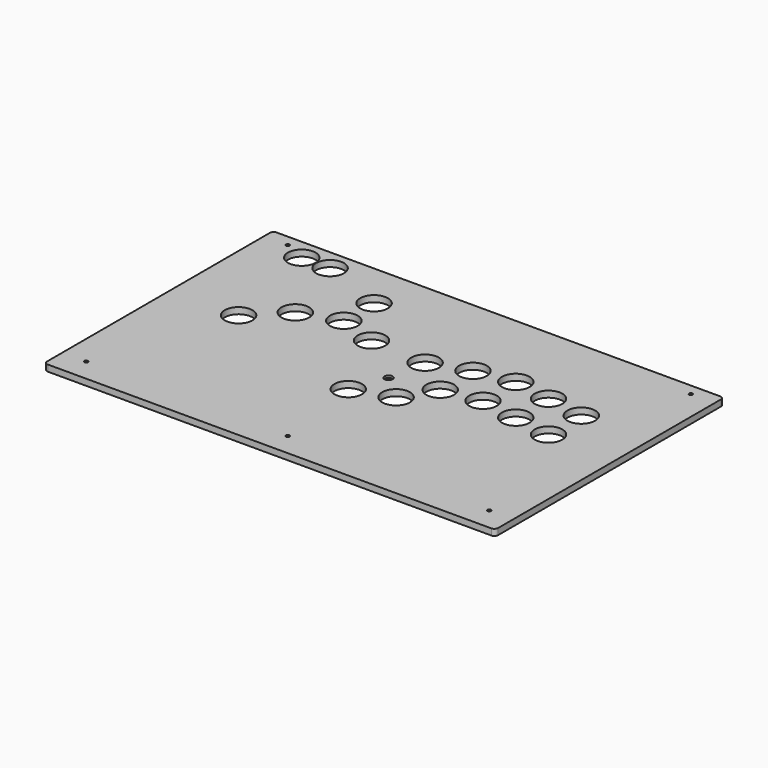
from build123d import *

# Parameters (mm, degrees)
PAD002_DEPTH  = 5
SKETCH008_R   = 11
HOLE001_DEPTH = 5
SKETCH009_R   = 1.4
HOLE002_DEPTH = 5
SKETCH010_R   = 3.25
HOLE003_DEPTH = 1.7


with BuildPart() as part:
    # Sketch007 → Pad002 (new body)
    with BuildSketch(Plane.XY):
        with BuildLine():
            Line((-176, -1), (176, -1))
            ThreePointArc((179, -4), (178.12132, -1.87868), (176, -1))
            Line((179, -4), (179, -225))
            ThreePointArc((176, -228), (178.12132, -227.12132), (179, -225))
            Line((176, -228), (-176, -228))
            ThreePointArc((-179, -225), (-178.12132, -227.12132), (-176, -228))
            Line((-179, -225), (-179, -4))
            ThreePointArc((-176, -1), (-178.12132, -1.87868), (-179, -4))
        make_face()
    extrude(amount=PAD002_DEPTH)

    # Sketch008 → Hole001 (cut)
    with BuildSketch(Plane.XY):
        with Locations((-142.75, -17.7)):
            Circle(SKETCH008_R)
        with Locations((-120.25, -17.7)):
            Circle(SKETCH008_R)
        with Locations((-69.5, -37.5)):
            Circle(SKETCH008_R)
        with Locations((-69.5, -67.5)):
            Circle(SKETCH008_R)
        with Locations((-100, -77.5)):
            Circle(SKETCH008_R)
        with Locations((-125, -102.5)):
            Circle(SKETCH008_R)
        with Locations((-39.5, -77.5)):
            Circle(SKETCH008_R)
        with Locations((5, -80)):
            Circle(SKETCH008_R)
        with Locations((35, -70)):
            Circle(SKETCH008_R)
        with Locations((65, -65)):
            Circle(SKETCH008_R)
        with Locations((95, -70)):
            Circle(SKETCH008_R)
        with Locations((125, -75)):
            Circle(SKETCH008_R)
        with Locations((-10, -137.5)):
            Circle(SKETCH008_R)
        with Locations((20, -127.5)):
            Circle(SKETCH008_R)
        with Locations((35, -102.5)):
            Circle(SKETCH008_R)
        with Locations((65, -97.5)):
            Circle(SKETCH008_R)
        with Locations((95, -102.5)):
            Circle(SKETCH008_R)
        with Locations((125, -107.5)):
            Circle(SKETCH008_R)
    extrude(amount=HOLE001_DEPTH, mode=Mode.SUBTRACT)

    # Sketch009 → Hole002 (cut)
    with BuildSketch(Plane.XY):
        with Locations((0, -210)):
            Circle(SKETCH009_R)
        with Locations((160, -210)):
            Circle(SKETCH009_R)
        with Locations((160, -10)):
            Circle(SKETCH009_R)
        with Locations((-160, -210)):
            Circle(SKETCH009_R)
        with Locations((-160, -10)):
            Circle(SKETCH009_R)
        with Locations((0, -110)):
            Circle(SKETCH009_R)
    extrude(amount=HOLE002_DEPTH, mode=Mode.SUBTRACT)

    # Sketch010 → Hole003 (cut)
    with BuildSketch(Plane(origin=(0, 0, 5), x_dir=(-1, 0, 0), z_dir=(0, 0, 1))):
        with Locations((0, 110)):
            Circle(SKETCH010_R)
    extrude(amount=-HOLE003_DEPTH, mode=Mode.SUBTRACT)


with BuildPart() as part_1:
    # Body001 placement: moved
    add(part.part.moved(Location((0, 0, 13.01))))


solid = part_1.part
